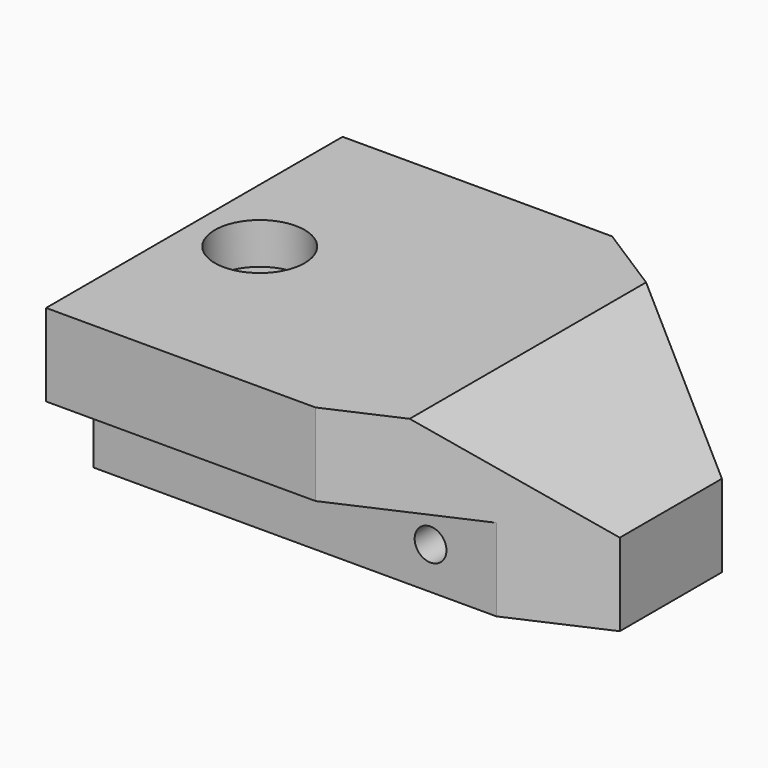
from build123d import *

# Parameters (mm, degrees)
F0_R     = 4.149951
F1_DEPTH = 25.4
F3_DEPTH = 50.8
F5_DEPTH = 12.7
F6_R     = 6.918171
F7_DEPTH = 6.35
F8_R     = 2.452339
F9_DEPTH = 47.968393


with BuildPart() as f1:
    # F0 (on Top) → F1 (new body)
    with BuildSketch(Plane.XY):
        Polygon((20.776082, 28.569183), (-20.776082, 28.569183), (-20.776082, -28.569183), (20.776082, -28.569183), (55.331081, -13.142847), (55.331081, 6.537836), align=None)
        with Locations((-10.68896, 0)):
            Circle(F0_R, mode=Mode.SUBTRACT)
    extrude(amount=F1_DEPTH)

    # F2 (on Front) → F3 (cut, symmetric)
    with BuildSketch(Plane.XZ):
        Polygon((31.462464, 25.4), (55.331081, 12.7), (55.331081, 25.4), align=None)
    extrude(amount=F3_DEPTH, both=True, mode=Mode.SUBTRACT)

    # F4 (on face) → F5 (cut)
    with BuildSketch(Plane(origin=(0, 0, 0), x_dir=(1, 0, 0), z_dir=(0, 0, -1))):
        Polygon((20.776082, 28.569183), (-20.776082, 28.569183), (-20.776082, 19.398211), (41.319063, 19.398211), align=None)
        Polygon((41.120535, -15.598102), (-20.776082, -15.598102), (-20.776082, -28.569183), (20.776082, -28.569183), align=None)
    extrude(amount=-F5_DEPTH, mode=Mode.SUBTRACT)

    # F6 (on face) → F7 (cut)
    with BuildSketch(Plane.XY.offset(25.4)):
        with Locations((-10.68896, 0)):
            Circle(F6_R)
    extrude(amount=-F7_DEPTH, mode=Mode.SUBTRACT)

    # F8 (on face) → F9 (cut, through all)
    with BuildSketch(Plane.XZ.offset(19.398211)):
        with Locations((31.159063, 6.444813)):
            Circle(F8_R)
    extrude(amount=-F9_DEPTH, mode=Mode.SUBTRACT)


solid = f1.part
